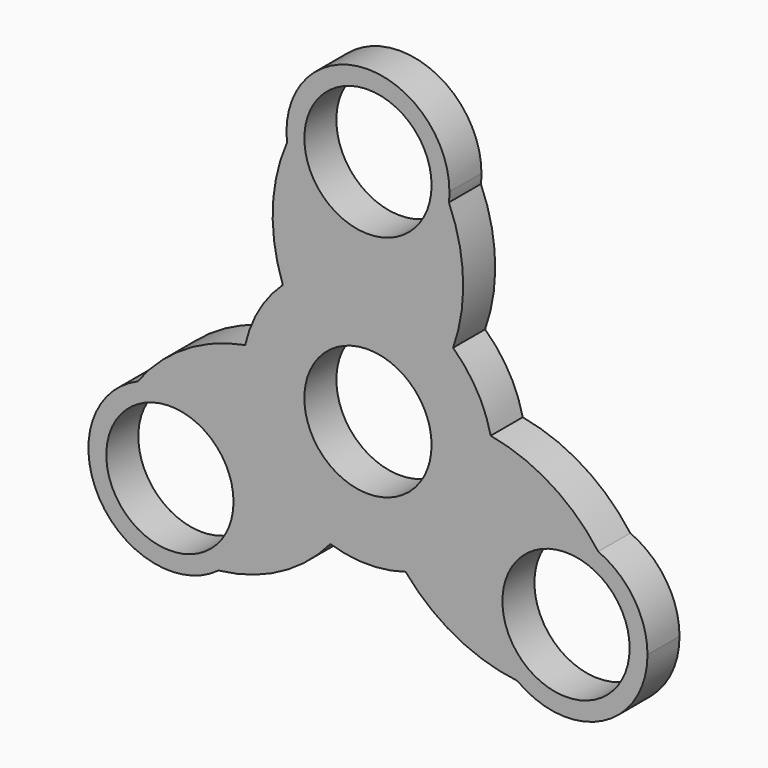
from build123d import *

# Parameters (mm, degrees)
F0_R     = 11.125
F1_DEPTH = 7


with BuildPart() as f1:
    # F0 (on Front) → F1 (new body)
    with BuildSketch(Plane.XZ):
        with BuildLine():
            ThreePointArc((-10.632867, 8.318182), (0, 16.5), (10.632867, 8.318182))
            ThreePointArc((10.632867, 8.318182), (13.056476, 12.097679), (14.888415, 16.196762))
            ThreePointArc((14.888415, 16.196762), (16.6416, 27.339077), (14.153044, 38.340529))
            ThreePointArc((14.153044, 38.340529), (0, 25.75), (-14.153044, 38.340529))
            ThreePointArc((-14.153044, 38.340529), (-16.65233, 27.336563), (-14.895904, 16.189874))
            ThreePointArc((-14.895904, 16.189874), (-13.06061, 12.093603), (-10.632867, 8.318182))
        make_face()
        with BuildLine():
            ThreePointArc((-12.52019, 5.049242), (-11.691343, 6.75), (-10.632867, 8.318182))
            ThreePointArc((-10.632867, 8.318182), (-13.06061, 12.093603), (-14.895904, 16.189874))
            ThreePointArc((-14.895904, 16.189874), (-19.055102, 10.995594), (-21.471015, 4.795365))
            ThreePointArc((-21.471015, 4.795365), (-17.005135, 5.2584), (-12.52019, 5.049242))
        make_face()
        with BuildLine():
            ThreePointArc((-6.57289, -20.995169), (-3.943063, -17.357621), (-1.887323, -13.367423))
            ThreePointArc((-1.887323, -13.367423), (-14.289419, -8.25), (-12.52019, 5.049242))
            ThreePointArc((-12.52019, 5.049242), (-17.005135, 5.2584), (-21.471015, 4.795365))
            ThreePointArc((-21.471015, 4.795365), (-31.997135, 0.74251), (-40.280394, -6.913369))
            ThreePointArc((-40.280394, -6.913369), (-26.808348, -8.095723), (-20.391016, -20))
            ThreePointArc((-20.391016, -20), (-21.905588, -26.393073), (-26.12735, -31.42716))
            ThreePointArc((-26.12735, -31.42716), (-15.347993, -28.089622), (-6.57289, -20.995169))
        make_face()
        with BuildLine():
            ThreePointArc((6.582599, -20.992127), (3.948659, -17.356079), (1.887323, -13.367423))
            ThreePointArc((1.887323, -13.367423), (0, -13.5), (-1.887323, -13.367423))
            ThreePointArc((-1.887323, -13.367423), (-3.943063, -17.357621), (-6.57289, -20.995169))
            ThreePointArc((-6.57289, -20.995169), (0.005087, -21.999999), (6.582599, -20.992127))
        make_face()
        with BuildLine():
            ThreePointArc((21.468795, 4.805294), (17.003672, 5.264018), (12.52019, 5.049242))
            ThreePointArc((12.52019, 5.049242), (14.289419, -8.25), (1.887323, -13.367423))
            ThreePointArc((1.887323, -13.367423), (3.948659, -17.356079), (6.582599, -20.992127))
            ThreePointArc((6.582599, -20.992127), (15.355535, -28.081587), (26.12735, -31.42716))
            ThreePointArc((26.12735, -31.42716), (22.300154, -12.875), (40.280394, -6.913369))
            ThreePointArc((40.280394, -6.913369), (32.000323, 0.753059), (21.468795, 4.805294))
        make_face()
        with BuildLine():
            ThreePointArc((12.52019, 5.049242), (13.252784, 2.571715), (13.5, 0))
            ThreePointArc((13.5, 0), (10.19139, -8.853562), (1.887323, -13.367423))
            ThreePointArc((1.887323, -13.367423), (14.289419, -8.25), (12.52019, 5.049242))
        make_face()
        with BuildLine():
            ThreePointArc((1.887323, -13.367423), (10.19139, -8.853562), (13.5, 0))
            ThreePointArc((13.5, 0), (13.252784, 2.571715), (12.52019, 5.049242))
            ThreePointArc((12.52019, 5.049242), (11.691343, 6.75), (10.632867, 8.318182))
            ThreePointArc((10.632867, 8.318182), (0, 13.5), (-10.632867, 8.318182))
            ThreePointArc((-10.632867, 8.318182), (-11.691343, 6.75), (-12.52019, 5.049242))
            ThreePointArc((-12.52019, 5.049242), (-11.691343, -6.75), (-1.887323, -13.367423))
            ThreePointArc((-1.887323, -13.367423), (0, -13.5), (1.887323, -13.367423))
        make_face()
        Circle(F0_R, mode=Mode.SUBTRACT)
        with BuildLine():
            ThreePointArc((-12.52019, 5.049242), (-14.289419, -8.25), (-1.887323, -13.367423))
            ThreePointArc((-1.887323, -13.367423), (-11.691343, -6.75), (-12.52019, 5.049242))
        make_face()
        with BuildLine():
            ThreePointArc((-10.632867, 8.318182), (0, 13.5), (10.632867, 8.318182))
            ThreePointArc((10.632867, 8.318182), (0, 16.5), (-10.632867, 8.318182))
        make_face()
        with BuildLine():
            ThreePointArc((-14.153044, 38.340529), (0, 25.75), (14.153044, 38.340529))
            ThreePointArc((14.153044, 38.340529), (14.22574, 39.168849), (14.25, 40))
            ThreePointArc((14.25, 40), (-0.831151, 54.22574), (-14.153044, 38.340529))
        make_face()
        with Locations((0, 40)):
            Circle(F0_R, mode=Mode.SUBTRACT)
        with BuildLine():
            ThreePointArc((10.632867, 8.318182), (11.691343, 6.75), (12.52019, 5.049242))
            ThreePointArc((12.52019, 5.049242), (17.003672, 5.264018), (21.468795, 4.805294))
            ThreePointArc((21.468795, 4.805294), (19.050015, 11.004405), (14.888415, 16.196762))
            ThreePointArc((14.888415, 16.196762), (13.056476, 12.097679), (10.632867, 8.318182))
        make_face()
        with BuildLine():
            ThreePointArc((48.891016, -20), (46.545293, -12.167332), (40.280394, -6.913369))
            ThreePointArc((40.280394, -6.913369), (22.300154, -12.875), (26.12735, -31.42716))
            ThreePointArc((26.12735, -31.42716), (41.034089, -32.735428), (48.891016, -20))
        make_face()
        with Locations((34.641016, -20)):
            Circle(F0_R, mode=Mode.SUBTRACT)
        with BuildLine():
            ThreePointArc((-40.280394, -6.913369), (-46.981878, -27.125), (-26.12735, -31.42716))
            ThreePointArc((-26.12735, -31.42716), (-21.905588, -26.393073), (-20.391016, -20))
            ThreePointArc((-20.391016, -20), (-26.808348, -8.095723), (-40.280394, -6.913369))
        make_face()
        with Locations((-34.641016, -20)):
            Circle(F0_R, mode=Mode.SUBTRACT)
    extrude(amount=F1_DEPTH)


solid = f1.part
